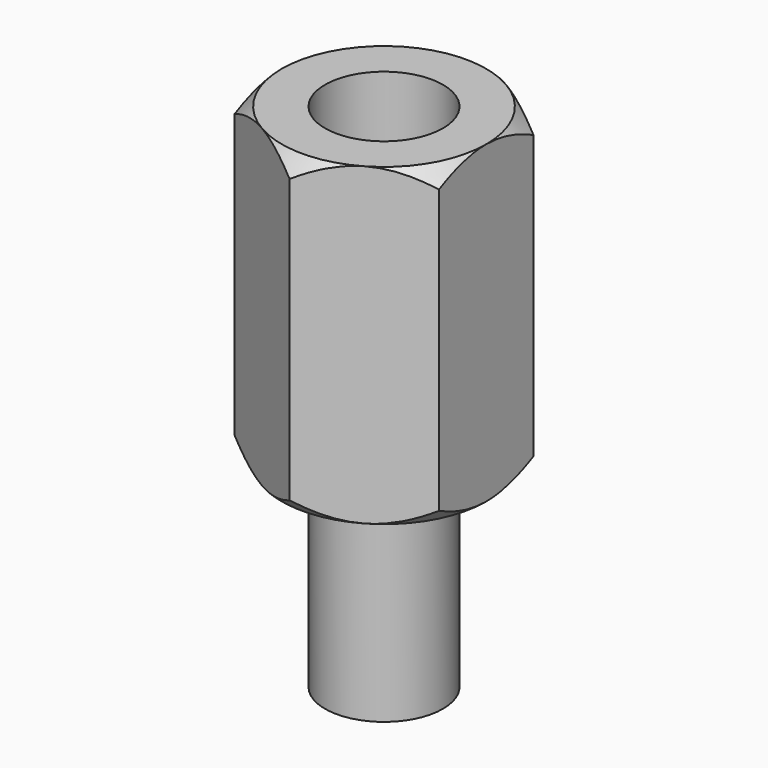
from build123d import *

# Parameters (mm, degrees)
PAD_DEPTH    = 4
SKETCH001_R  = 1.5
POCKET_DEPTH = 6
SKETCH004_R  = 1.5
PAD001_DEPTH = 5


with BuildPart() as body001:
    # Sketch003 → Revolution (revolve)
    with BuildSketch(Plane.YZ):
        Polygon((1.6, 5), (4.6, 5), (4.6, -5), (1.6, -5), (4.1, -2.5), (4.1, 2.5), align=None)
    revolve(axis=Axis((0, 0, 0), (0, 0, 1)))


with BuildPart() as cut:
    # Sketch → Pad (new body, symmetric)
    with BuildSketch(Plane.XY):
        Polygon((2.6, 1.501111), (0, 3.002221), (-2.6, 1.501111), (-2.6, -1.501111), (0, -3.002221), (2.6, -1.501111), align=None)
    extrude(amount=PAD_DEPTH, both=True)

    # Sketch001 (on Face8 of Pad) → Pocket (cut)
    with BuildSketch(Plane.XY.offset(4)):
        Circle(SKETCH001_R)
    extrude(amount=-POCKET_DEPTH, mode=Mode.SUBTRACT)

    # Sketch004 (on Face4 of Pocket) → Pad001 (join)
    with BuildSketch(Plane(origin=(0, 0, -4), x_dir=(1, 0, 0), z_dir=(0, 0, -1))):
        Circle(SKETCH004_R)
    extrude(amount=PAD001_DEPTH)

    # Cut: cut Body001
    add(body001.part, mode=Mode.SUBTRACT)


solid = cut.part
